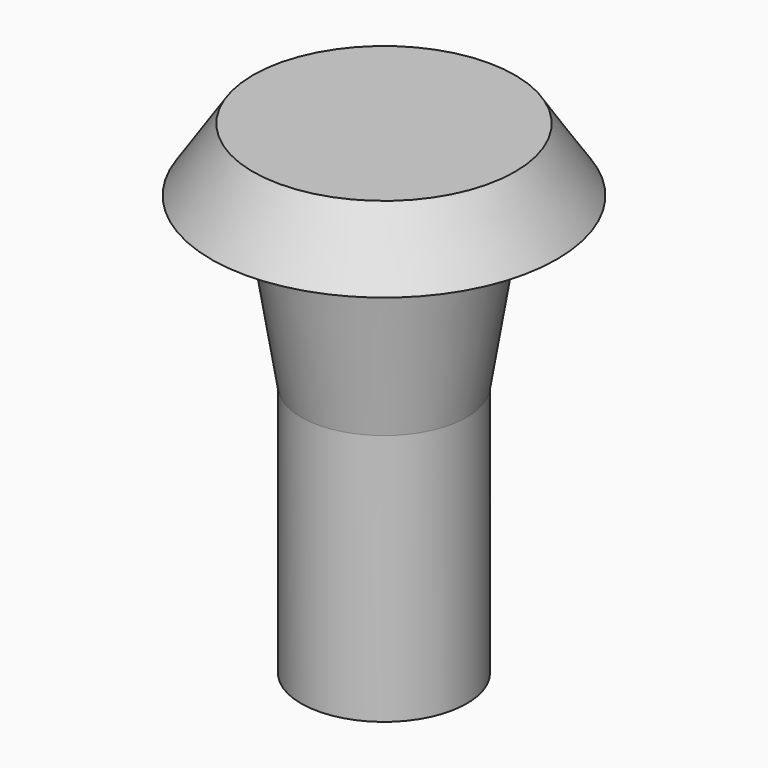
from build123d import *

# Parameters (mm, degrees)
CYLINDER014_R     = 1.5
CYLINDER014_DEPTH = 10


with BuildPart() as zylinder014:
    # Cylinder014 → Cylinder014 (new body)
    with BuildSketch(Plane.XY.offset(-17)):
        Circle(CYLINDER014_R)
    extrude(amount=CYLINDER014_DEPTH)


with BuildPart() as cut016:
    # Sketch006 → Revolve001 (revolve)
    with BuildSketch(Plane.XZ):
        Polygon((0, 0), (-3.81, 0), (-5.029301, -1.843205), (-3.199301, -1.843205), (-2.41, -6.74), (-2.41, -14.07), (0, -14.07), align=None)
    revolve(axis=Axis((0, 0, 0), (0, 0, 1)))

    # Cut016: cut Zylinder014
    add(zylinder014.part, mode=Mode.SUBTRACT)


with BuildPart() as cut016_1:
    # Cut016 placement: moved
    add(cut016.part.moved(Location((0, 0, 27.5))))


solid = cut016_1.part
